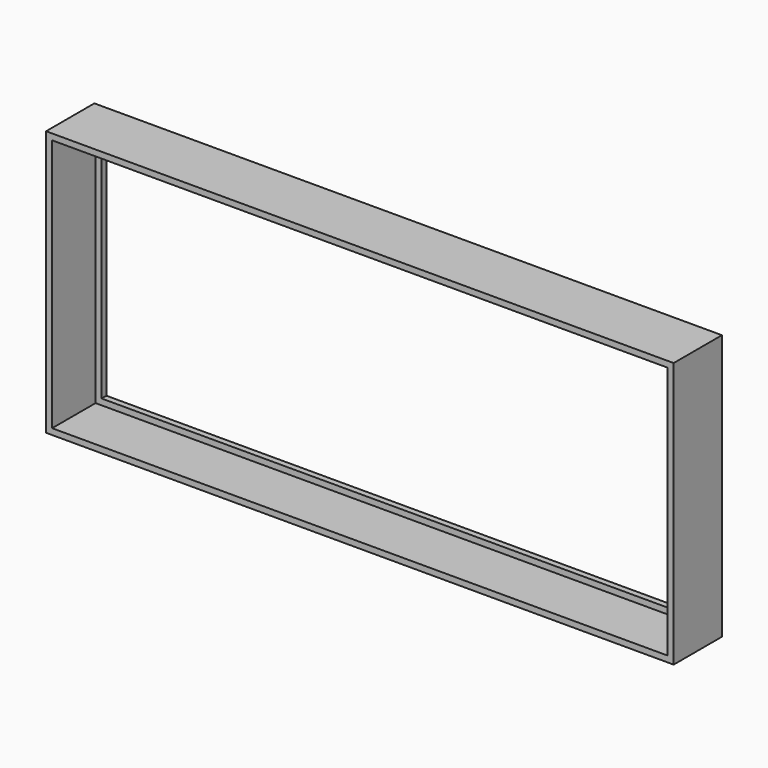
from build123d import *

# Parameters (mm, degrees)
F0_W     = 104
F0_H     = 44
F0_W_2   = 100
F0_H_2   = 40
F1_DEPTH = 10
F2_T     = -1
F3_DEPTH = 25


with BuildPart() as f1:
    # F0 (on Front) → F1 (new body)
    with BuildSketch(Plane.XZ):
        with Locations((-101.889864, 31.185937)):
            Rectangle(F0_W, F0_H)
        with Locations((-101.889864, 31.185937)):
            Rectangle(F0_W_2, F0_H_2, mode=Mode.SUBTRACT)
        with Locations((-101.889864, 31.185937)):
            Rectangle(F0_W_2, F0_H_2)
    extrude(amount=-F1_DEPTH)

    # F2
    f2_openings = [f1.faces().sort_by_distance(p)[0] for p in [
        (-101.889864, 0, 31.185937),
    ]]
    offset(amount=F2_T, openings=f2_openings)

    # F0 (on Front) → F3 (cut)
    with BuildSketch(Plane.XZ):
        with Locations((-101.889864, 31.185937)):
            Rectangle(F0_W_2, F0_H_2)
    extrude(amount=-F3_DEPTH, mode=Mode.SUBTRACT)


solid = f1.part
